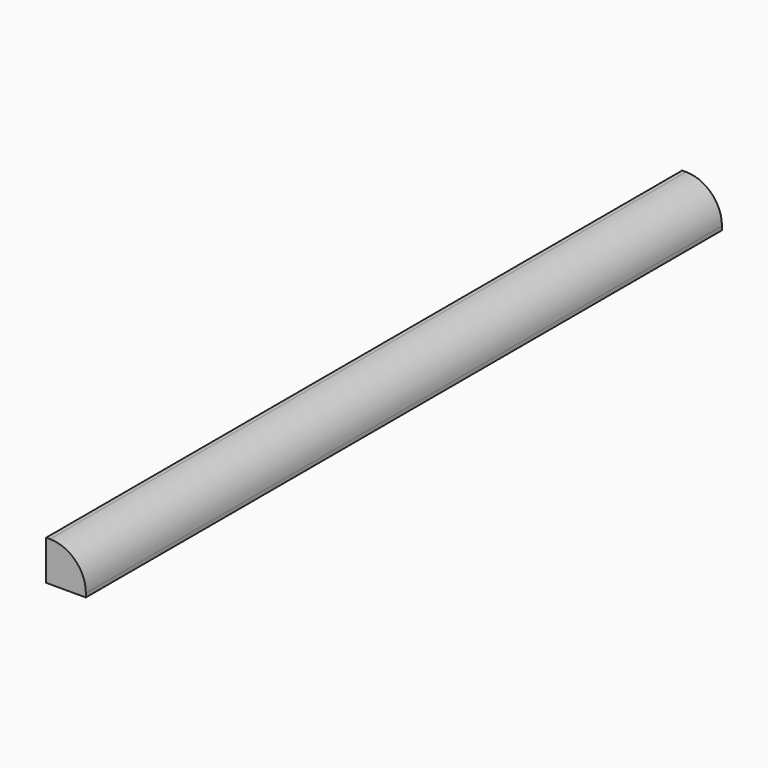
from build123d import *

# Parameters (mm, degrees)
F1_DEPTH = 1000


with BuildPart() as f1:
    # F0 (on Front) → F1 (new body)
    with BuildSketch(Plane.XZ):
        with BuildLine():
            Line((0, 50), (0, 0))
            Line((0, 0), (50, 0))
            Line((50, 0), (50, 5))
            ThreePointArc((50, 5), (36.819805, 36.819805), (5, 50))
            Line((5, 50), (0, 50))
        make_face()
    extrude(amount=-F1_DEPTH)


solid = f1.part
